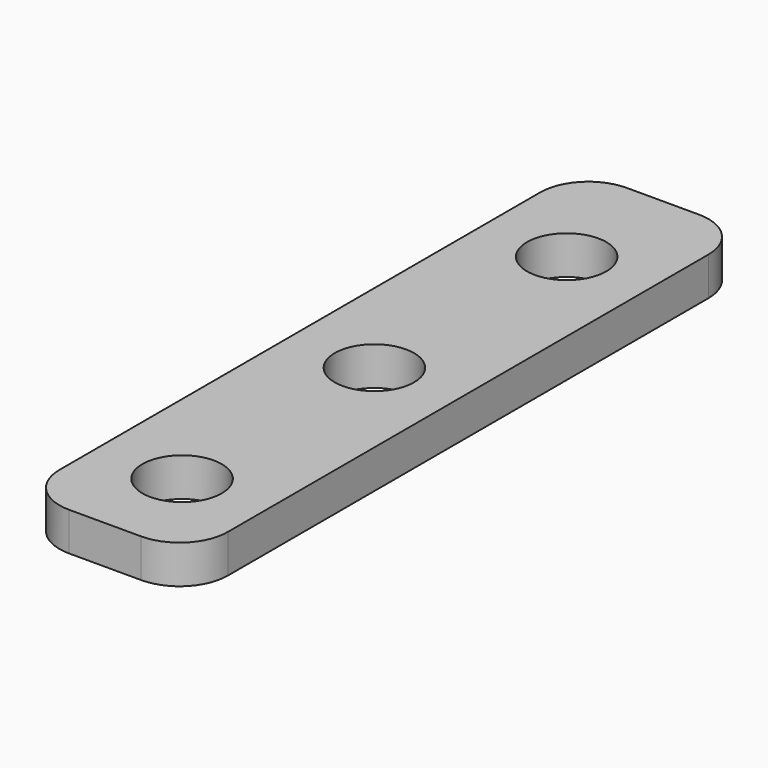
from build123d import *

# Parameters (mm, degrees)
SKETCH_W  = 7
SKETCH_H  = 29
SKETCH_R  = 1.65
PAD_DEPTH = 1.6
FILLET_R  = 2


with BuildPart() as part:
    # Sketch → Pad (new body)
    with BuildSketch(Plane.XY):
        with Locations((0, -9.5)):
            Rectangle(SKETCH_W, SKETCH_H)
        Circle(SKETCH_R, mode=Mode.SUBTRACT)
        with Locations((0, -10)):
            Circle(SKETCH_R, mode=Mode.SUBTRACT)
        with Locations((0, -20)):
            Circle(SKETCH_R, mode=Mode.SUBTRACT)
    extrude(amount=PAD_DEPTH)

    # Fillet
    fillet_edges = [part.edges().sort_by_distance(p)[0] for p in [
        (3.5, 5, 0.8),
        (3.5, -24, 0.8),
        (-3.5, -24, 0.8),
        (-3.5, 5, 0.8),
    ]]
    fillet(fillet_edges, radius=FILLET_R)


solid = part.part
